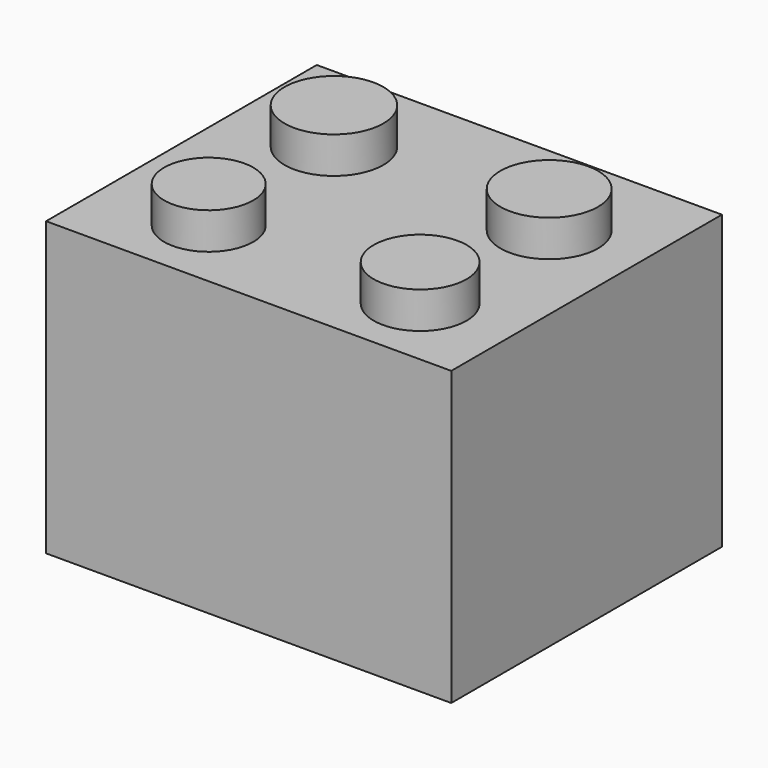
from build123d import *

# Parameters (mm, degrees)
F0_W     = 55.42358
F0_H     = 46.27962
F1_DEPTH = 40
F2_R     = 6.761924
F2_R_2   = 6.673414
F2_R_3   = 6.092798
F2_R_4   = 6.349814
F3_DEPTH = 5
F4_W     = 51.318126
F4_H     = 42.360786
F4_R     = 6.730957
F5_DEPTH = 25


with BuildPart() as f1:
    # F0 (on Top) → F1 (new body)
    with BuildSketch(Plane.XY):
        with Locations((27.71179, 23.13981)):
            Rectangle(F0_W, F0_H)
    extrude(amount=F1_DEPTH)

    # F2 (on face) → F3 (join)
    with BuildSketch(Plane.XY.offset(40)):
        with Locations((13.249407, 32.656994)):
            Circle(F2_R)
        with Locations((43.293841, 31.910546)):
            Circle(F2_R_2)
        with Locations((14.182466, 10.077015)):
            Circle(F2_R_3)
        with Locations((43.10723, 10.077015)):
            Circle(F2_R_4)
    extrude(amount=F3_DEPTH)

    # F4 (on face) → F5 (cut)
    with BuildSketch(Plane(origin=(0, 0, 0), x_dir=(1, 0, 0), z_dir=(0, 0, -1))):
        with Locations((27.8984, -23.233118)):
            Rectangle(F4_W, F4_H)
        with Locations((28.178319, -23.513034)):
            Circle(F4_R, mode=Mode.SUBTRACT)
    extrude(amount=-F5_DEPTH, mode=Mode.SUBTRACT)


solid = f1.part
